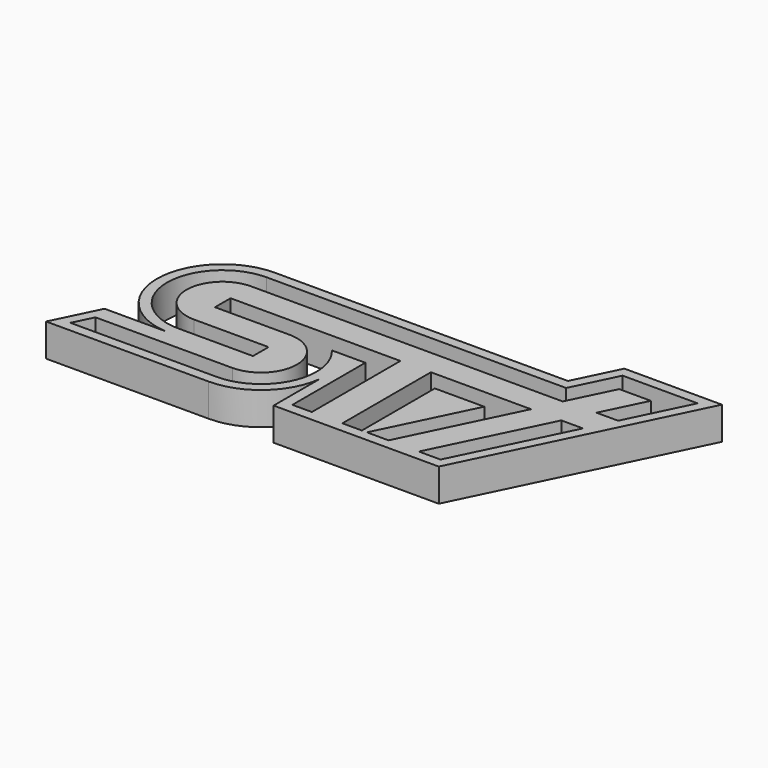
from build123d import *

# Parameters (mm, degrees)
F1_DEPTH = 1.27


with BuildPart() as f1:
    # F0 (on Top) → F1 (new body)
    with BuildSketch(Plane.XY):
        with BuildLine():
            Line((-143.820618, -36.518852), (-144.679685, -38.280199))
            Line((-144.679685, -38.280199), (-138.366957, -38.280199))
            ThreePointArc((-138.366957, -38.280199), (-136.690281, -37.648022), (-135.848364, -36.06623))
            Line((-135.848364, -36.06623), (-135.848364, -38.280199))
            Line((-135.848364, -38.280199), (-129.439685, -38.280199))
            Line((-129.439685, -38.280199), (-125.277373, -29.746197))
            Line((-125.277373, -29.746197), (-129.063462, -29.746197))
            Line((-129.063462, -29.746197), (-129.893292, -31.447601))
            Line((-129.893292, -31.447601), (-141.2693, -31.447601))
            ThreePointArc((-141.2693, -31.447601), (-143.806887, -33.887324), (-141.4688, -36.518852))
            Line((-141.4688, -36.518852), (-143.820618, -36.518852))
        make_face()
        with BuildLine():
            Line((-138.366957, -37.887174), (-144.050712, -37.887174))
            Line((-144.050712, -37.887174), (-143.682075, -37.131355))
            Line((-143.682075, -37.131355), (-138.366957, -37.131355))
            ThreePointArc((-138.366957, -37.131355), (-136.976252, -35.740649), (-138.366957, -34.349944))
            Line((-138.366957, -34.349944), (-141.2693, -34.349944))
            Line((-141.2693, -34.349944), (-141.2693, -33.594125))
            Line((-141.2693, -33.594125), (-134.678563, -33.594125))
            Line((-134.678563, -33.594125), (-134.678563, -37.887174))
            Line((-134.678563, -37.887174), (-135.434382, -37.887174))
            Line((-135.434382, -37.887174), (-135.434382, -34.349944))
            Line((-135.434382, -34.349944), (-136.731872, -34.349944))
            ThreePointArc((-136.731872, -34.349944), (-136.418528, -36.641311), (-138.366957, -37.887174))
        make_face(mode=Mode.SUBTRACT)
        Polygon((-132.737622, -37.887174), (-133.49344, -37.887174), (-133.49344, -33.594125), (-129.608816, -33.594125), (-131.702676, -37.887174), (-132.543601, -37.887174), (-130.818378, -34.349944), (-132.737622, -34.349944), align=None, mode=Mode.SUBTRACT)
        Polygon((-129.685274, -37.887174), (-130.526199, -37.887174), (-128.432339, -33.594125), (-127.591414, -33.594125), align=None, mode=Mode.SUBTRACT)
        with BuildLine():
            Line((-138.366957, -35.377857), (-138.366957, -36.133675))
            Line((-138.366957, -36.133675), (-141.2693, -36.133675))
            ThreePointArc((-141.2693, -36.133675), (-143.415825, -33.987151), (-141.2693, -31.840626))
            Line((-141.2693, -31.840626), (-129.647702, -31.840626))
            Line((-129.647702, -31.840626), (-128.817872, -30.139222))
            Line((-128.817872, -30.139222), (-125.906346, -30.139222))
            Line((-125.906346, -30.139222), (-127.074189, -32.533655))
            Line((-127.074189, -32.533655), (-127.915114, -32.533655))
            Line((-127.915114, -32.533655), (-127.115908, -30.895041))
            Line((-127.115908, -30.895041), (-128.345584, -30.895041))
            Line((-128.345584, -30.895041), (-129.175414, -32.596445))
            Line((-129.175414, -32.596445), (-141.2693, -32.596445))
            ThreePointArc((-141.2693, -32.596445), (-142.660006, -33.987151), (-141.2693, -35.377857))
            Line((-141.2693, -35.377857), (-138.366957, -35.377857))
        make_face(mode=Mode.SUBTRACT)
    extrude(amount=F1_DEPTH)


solid = f1.part
